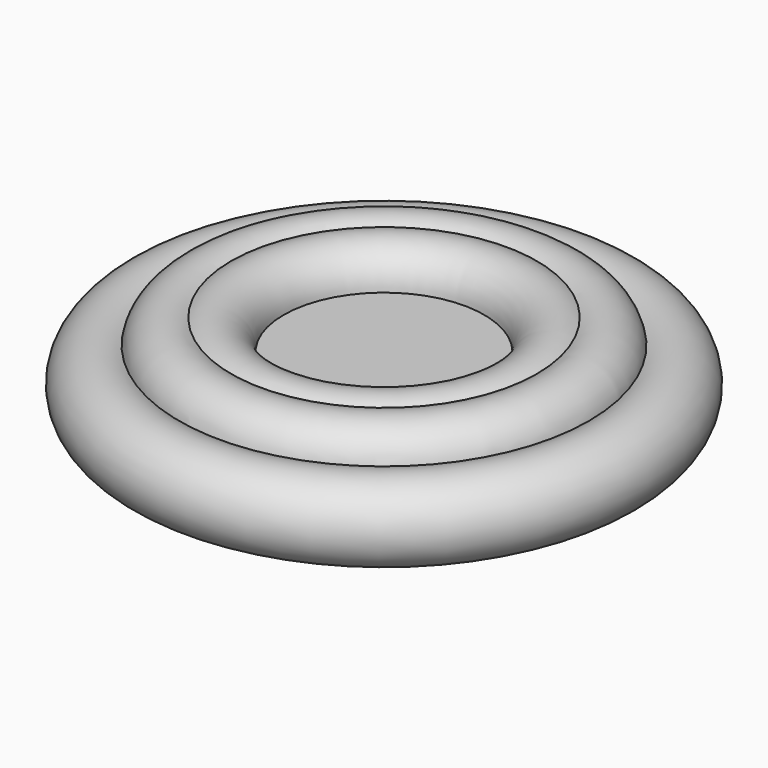
from build123d import *


with BuildPart() as f1:
    # F0 (on Front) → F1 (revolve)
    with BuildSketch(Plane.XZ):
        with BuildLine():
            Line((-9.2035829094, 0), (0, 0))
            Line((0, 0), (0, 5.1808068529))
            Line((0, 5.1808068529), (-9.2035829094, 5.1808068529))
            ThreePointArc((-9.2035829094, 5.1808068529), (-9.5503148065, 3.7289303055), (-10.5156774653, 2.5904034264))
            ThreePointArc((-10.5156774653, 2.5904034264), (-9.5503148065, 1.4518765474), (-9.2035829094, 0))
        make_face()
        with BuildLine():
            ThreePointArc((-14.024102015, -2.7821242655), (-10.810567521, -2.7828771028), (-9.2035829094, 0))
            Line((-9.2035829094, 0), (-12.4184211207, 0))
            ThreePointArc((-12.4184211207, 0), (-12.8486440179, -1.6061153884), (-14.024102015, -2.7821242655))
        make_face()
        with BuildLine():
            Line((-12.4184211207, 0), (-9.2035829094, 0))
            ThreePointArc((-9.2035829094, 0), (-9.5503148065, 1.4518765474), (-10.5156774653, 2.5904034264))
            ThreePointArc((-10.5156774653, 2.5904034264), (-11.7797812754, 2.0314628071), (-13.1617384711, 2.0552822857))
            ThreePointArc((-13.1617384711, 2.0552822857), (-12.6099594184, 1.0927838255), (-12.4184211207, 0))
        make_face()
        with BuildLine():
            ThreePointArc((-14.024102015, -2.7821242655), (-12.8486440179, -1.6061153884), (-12.4184211207, 0))
            Line((-12.4184211207, 0), (-15.6297829094, 0))
            ThreePointArc((-15.6297829094, 0), (-15.1995600122, -1.6061153884), (-14.024102015, -2.7821242655))
        make_face()
        with BuildLine():
            ThreePointArc((-13.1589202753, 3.1261950199), (-11.7783616559, 3.1490566186), (-10.5156774653, 2.5904034264))
            ThreePointArc((-10.5156774653, 2.5904034264), (-9.5503148065, 3.7289303055), (-9.2035829094, 5.1808068529))
            Line((-9.2035829094, 5.1808068529), (-12.4166829094, 5.1808068529))
            ThreePointArc((-12.4166829094, 5.1808068529), (-12.6079308373, 4.0885218521), (-13.1589202753, 3.1261950199))
        make_face()
        with BuildLine():
            ThreePointArc((-18.7989962083, -0.5395490516), (-16.9974382354, -2.908312577), (-14.024102015, -2.7821242655))
            ThreePointArc((-14.024102015, -2.7821242655), (-15.1995600122, -1.6061153884), (-15.6297829094, 0))
            Line((-15.6297829094, 0), (-15.6315211207, 0))
            ThreePointArc((-15.6315211207, 0), (-16.6338950113, 0.2017978719), (-17.4800948359, 0.7757505309))
            ThreePointArc((-17.4800948359, 0.7757505309), (-18.0533432093, 0.0316623722), (-18.7989962083, -0.5395490516))
        make_face()
        with BuildLine():
            Line((-12.4166829094, 5.1808068529), (-9.2035829094, 5.1808068529))
            ThreePointArc((-9.2035829094, 5.1808068529), (-10.8096986502, 7.9631823129), (-14.0223642737, 7.9639344041))
            ThreePointArc((-14.0223642737, 7.9639344041), (-12.8468879631, 6.7873568529), (-12.4166829094, 5.1808068529))
        make_face()
        with BuildLine():
            ThreePointArc((-18.8006016791, 5.7212817729), (-24.2187651253, 2.58947677), (-18.7989962083, -0.5395490516))
            ThreePointArc((-18.7989962083, -0.5395490516), (-18.7446272031, 0.7953503188), (-18.1520351114, 1.9927420387))
            ThreePointArc((-18.1520351114, 1.9927420387), (-18.2219243101, 2.5892953209), (-18.1525455161, 3.1859081782))
            ThreePointArc((-18.1525455161, 3.1859081782), (-18.7462206909, 4.384671618), (-18.8006016791, 5.7212817729))
        make_face()
        with BuildLine():
            ThreePointArc((-18.1520351114, 1.9927420387), (-18.7446272031, 0.7953503188), (-18.7989962083, -0.5395490516))
            ThreePointArc((-18.7989962083, -0.5395490516), (-18.0533432093, 0.0316623722), (-17.4800948359, 0.7757505309))
            ThreePointArc((-17.4800948359, 0.7757505309), (-17.8992289784, 1.3383287546), (-18.1520351114, 1.9927420387))
        make_face()
        with BuildLine():
            Line((-15.6297829094, 5.1808068529), (-12.4166829094, 5.1808068529))
            ThreePointArc((-12.4166829094, 5.1808068529), (-12.8468879631, 6.7873568529), (-14.0223642737, 7.9639344041))
            ThreePointArc((-14.0223642737, 7.9639344041), (-15.1990583695, 6.787791112), (-15.6297829094, 5.1808068529))
        make_face()
        with BuildLine():
            ThreePointArc((-15.6297829094, 5.1808068529), (-15.1990583695, 6.787791112), (-14.0223642737, 7.9639344041))
            ThreePointArc((-14.0223642737, 7.9639344041), (-16.997432246, 8.0910425001), (-18.8006016791, 5.7212817729))
            ThreePointArc((-18.8006016791, 5.7212817729), (-18.0539994336, 5.1497987451), (-17.4800948359, 4.405056322))
            ThreePointArc((-17.4800948359, 4.405056322), (-16.6338950113, 4.9790089809), (-15.6315211207, 5.1808068529))
            Line((-15.6315211207, 5.1808068529), (-15.6297829094, 5.1808068529))
        make_face()
        with BuildLine():
            ThreePointArc((-17.4800948359, 4.405056322), (-18.0539994336, 5.1497987451), (-18.8006016791, 5.7212817729))
            ThreePointArc((-18.8006016791, 5.7212817729), (-18.7462206909, 4.384671618), (-18.1525455161, 3.1859081782))
            ThreePointArc((-18.1525455161, 3.1859081782), (-17.8997643751, 3.8415079187), (-17.4800948359, 4.405056322))
        make_face()
    revolve(axis=Axis((0, 0, 2.5904034264), (0, 0, 1)))


solid = f1.part
